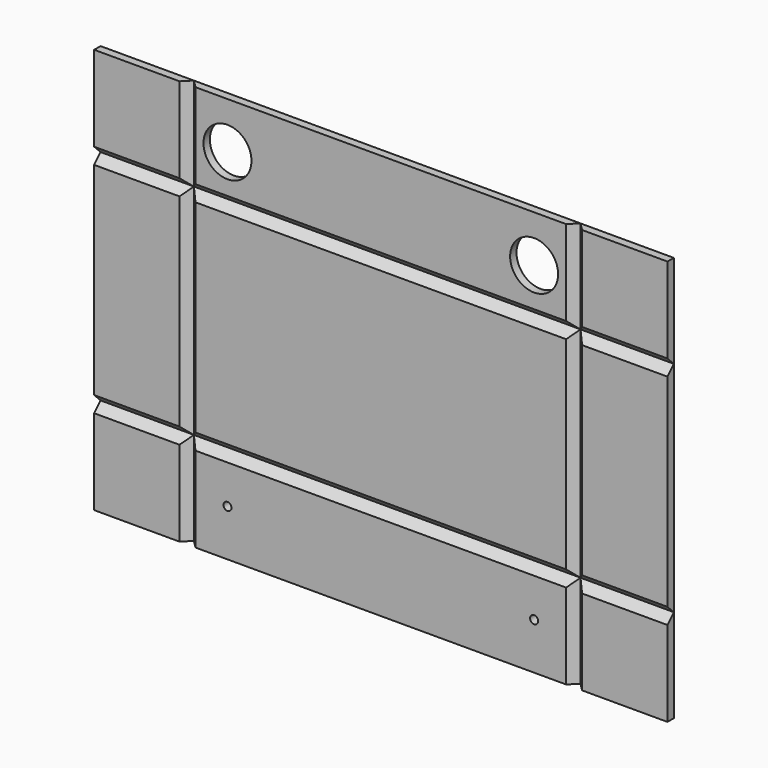
from build123d import *

# Parameters (mm, degrees)
F0_W     = 215
F0_H     = 152
F1_DEPTH = 3
F3_DEPTH = 174.7
F5_DEPTH = 226.7
F6_R     = 9
F6_R_2   = 1.5
F7_DEPTH = 25


with BuildPart() as f1:
    # F0 (on Front) → F1 (new body)
    with BuildSketch(Plane.XZ):
        Rectangle(F0_W, F0_H)
    extrude(amount=F1_DEPTH)

    # F2 (on face) → F3 (cut)
    with BuildSketch(Plane(origin=(0, 0, -76), x_dir=(1, 0, 0), z_dir=(0, 0, -1))):
        Polygon((-75.5, 3), (-72.5, 0), (-69.5, 3), align=None)
        Polygon((69.5, 3), (72.5, 0), (75.5, 3), align=None)
    extrude(amount=-F3_DEPTH, mode=Mode.SUBTRACT)

    # F4 (on face) → F5 (cut)
    with BuildSketch(Plane(origin=(-107.5, 0, 0), x_dir=(0, -1, 0), z_dir=(-1, 0, 0))):
        Polygon((3, 44), (0, 41), (3, 38), align=None)
        Polygon((3, -38), (0, -41), (3, -44), align=None)
    extrude(amount=-F5_DEPTH, mode=Mode.SUBTRACT)

    # F6 (on face) → F7 (cut)
    with BuildSketch(Plane(origin=(0, 0, 0), x_dir=(-1, 0, 0), z_dir=(0, 1, 0))):
        with Locations((-57.5, 58.5)):
            Circle(F6_R)
        with Locations((57.5, 58.5)):
            Circle(F6_R)
        with Locations((-57.5, -58.5)):
            Circle(F6_R_2)
        with Locations((57.5, -58.5)):
            Circle(F6_R_2)
    extrude(amount=-F7_DEPTH, mode=Mode.SUBTRACT)


solid = f1.part
